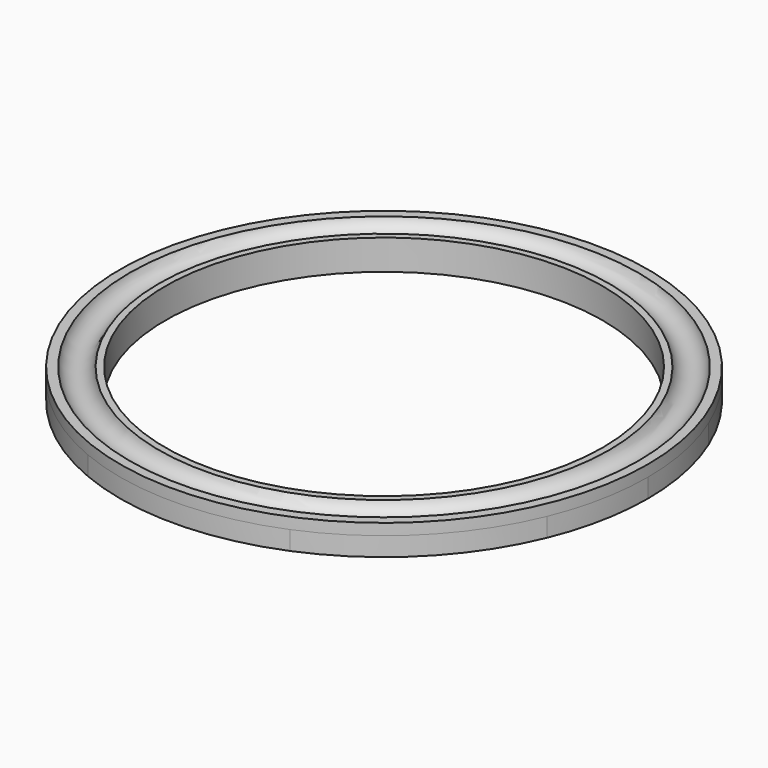
from build123d import *

# Parameters (mm, degrees)
SKETCH_R        = 70
SKETCH_R_2      = 57.25
PAD_DEPTH       = 15
SKETCH001_R     = 4
SKETCH002_W     = 40
SKETCH002_H     = 40
PAD001_DEPTH    = 5
SKETCH003_R     = 2.5
POCKET_DEPTH    = 5
FILLET_R        = 18
FILLET001_R     = 11
SKETCH004_R     = 58
POCKET001_DEPTH = 15.001
SKETCH005_R     = 71
POCKET002_DEPTH = 7
SKETCH006_R     = 4
SKETCH007_R     = 105
SKETCH007_R_2   = 70
POCKET003_DEPTH = 5


with BuildPart() as part:
    # Sketch → Pad (new body)
    with BuildSketch(Plane.XY):
        Circle(SKETCH_R)
        Circle(SKETCH_R_2, mode=Mode.SUBTRACT)
    extrude(amount=PAD_DEPTH)

    # Sketch001 → Groove (revolve, cut)
    with BuildSketch(Plane.XZ):
        with Locations((63.625, 16)):
            Circle(SKETCH001_R)
    revolve(axis=Axis((0, 0, 0), (0, 0, 1)), mode=Mode.SUBTRACT)

    # Sketch002 (on Face2 of Groove) → Pad001 (join)
    with BuildSketch(Plane(origin=(0, 0, 0), x_dir=(1, 0, 0), z_dir=(0, 0, -1))):
        with Locations((82, 0)):
            Rectangle(SKETCH002_W, SKETCH002_H)
        with Locations((-82, 0)):
            Rectangle(SKETCH002_W, SKETCH002_H)
        with Locations((0, 82)):
            Rectangle(SKETCH002_W, SKETCH002_H)
        with Locations((0, -82)):
            Rectangle(SKETCH002_W, SKETCH002_H)
    extrude(amount=-PAD001_DEPTH)

    # Sketch003 (on Face13 of Pad001) → Pocket (cut)
    with BuildSketch(Plane.XY.offset(5)):
        with Locations((-86.25, 0)):
            Circle(SKETCH003_R)
        with Locations((0, -86.25)):
            Circle(SKETCH003_R)
        with Locations((86.25, 0)):
            Circle(SKETCH003_R)
        with Locations((0, 86.25)):
            Circle(SKETCH003_R)
    extrude(amount=-POCKET_DEPTH, mode=Mode.SUBTRACT)

    # Fillet
    fillet_edges = [part.edges().sort_by_distance(p)[0] for p in [
        (-20, 102, 2.5),
        (20, 102, 2.5),
        (102, 20, 2.5),
        (102, -20, 2.5),
        (20, -102, 2.5),
        (-20, -102, 2.5),
        (-102, -20, 2.5),
        (-102, 20, 2.5),
    ]]
    fillet(fillet_edges, radius=FILLET_R)

    # Fillet001
    fillet001_edges = [part.edges().sort_by_distance(p)[0] for p in [
        (67.082039, 20, 2.5),
        (20, 67.082039, 2.5),
        (-20, 67.082039, 2.5),
        (-67.082039, 20, 2.5),
        (-67.082039, -20, 2.5),
        (-20, -67.082039, 2.5),
        (20, -67.082039, 2.5),
        (67.082039, -20, 2.5),
    ]]
    fillet(fillet001_edges, radius=FILLET001_R)

    # Sketch004 (on Face41 of Fillet001) → Pocket001 (cut, through all)
    with BuildSketch(Plane.XY.offset(15)):
        Circle(SKETCH004_R)
    extrude(amount=-POCKET001_DEPTH, mode=Mode.SUBTRACT)

    # Sketch005 (on Face38 of Pocket001) → Pocket002 (cut)
    with BuildSketch(Plane.XY.offset(15)):
        Circle(SKETCH005_R)
    extrude(amount=-POCKET002_DEPTH, mode=Mode.SUBTRACT)

    # Sketch006 → Groove001 (revolve, cut)
    with BuildSketch(Plane.XZ):
        with Locations((63.625, 9)):
            Circle(SKETCH006_R)
    revolve(axis=Axis((0, 0, 0), (0, 0, 1)), mode=Mode.SUBTRACT)

    # Sketch007 (on Face37 of Groove001) → Pocket003 (cut)
    with BuildSketch(Plane.XY.offset(5)):
        Circle(SKETCH007_R)
        Circle(SKETCH007_R_2, mode=Mode.SUBTRACT)
    extrude(amount=-POCKET003_DEPTH, mode=Mode.SUBTRACT)


solid = part.part
